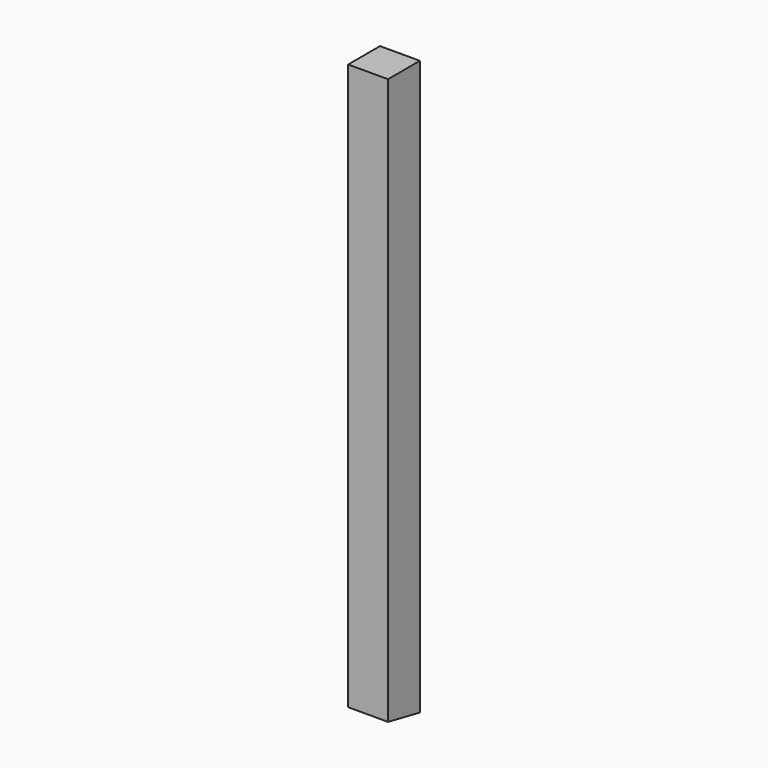
from build123d import *

# Parameters (mm, degrees)
PAD_DEPTH = 25


with BuildPart() as part:
    # Sketch → Pad (new body)
    with BuildSketch(Plane.YZ):
        Polygon((-12.5, 180), (12.5, 180), (12.5, -180), (-12.5, -175), align=None)
    extrude(amount=PAD_DEPTH)


solid = part.part
